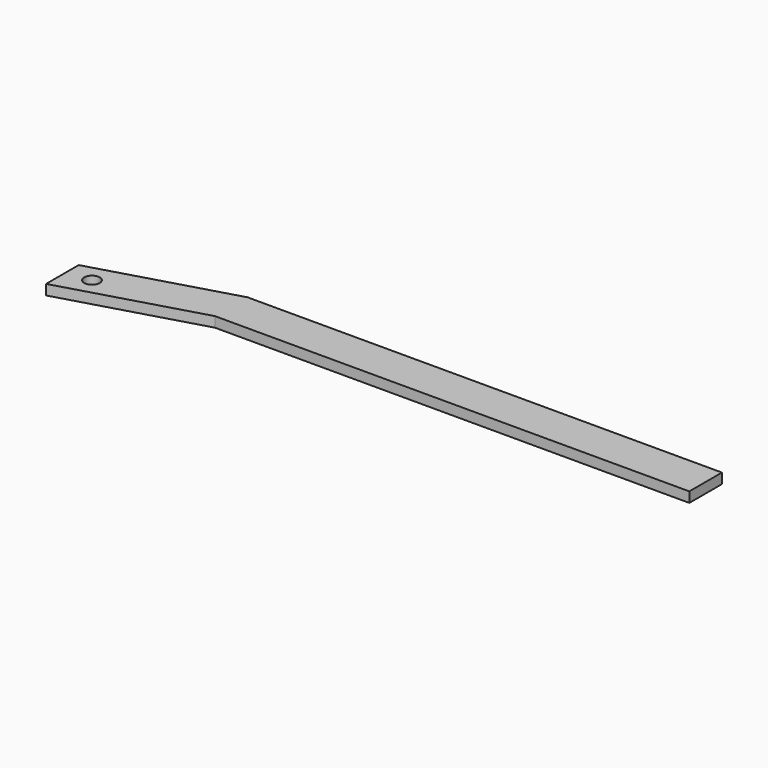
from build123d import *

# Parameters (mm, degrees)
F0_R     = 2.413
F1_DEPTH = 3.175


with BuildPart() as f1:
    # F0 (on Top) → F1 (new body)
    with BuildSketch(Plane.XY):
        Polygon((-47.562465, -18.619824), (-47.562465, -31.319824), (-4.877547, -18.9182), (79.437535, -18.9182), (92.137535, -18.9182), (142.937535, -18.9182), (142.937535, -6.2182), (-4.877547, -6.2182), align=None)
        with Locations((-40.069465, -22.821189)):
            Circle(F0_R, mode=Mode.SUBTRACT)
    extrude(amount=F1_DEPTH)


solid = f1.part
